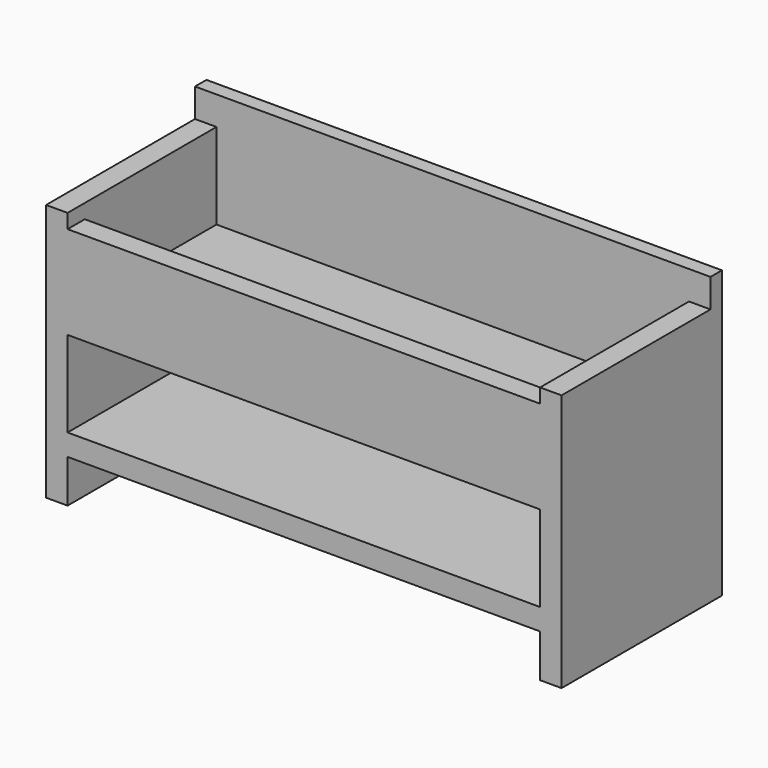
from build123d import *

# Parameters (mm, degrees)
F0_W     = 457.2
F0_H     = 254
F1_DEPTH = 12.7
F2_W     = 19.05
F2_H     = 228.6
F3_DEPTH = 165.1
F4_W     = 19.05
F4_H     = 63.5
F5_DEPTH = 419.1
F6_W     = 419.1
F6_H     = 19.05
F7_DEPTH = 165.1
F8_W     = 165.1
F8_H     = 19.05
F9_DEPTH = 419.1


with BuildPart() as f1:
    # F0 (on Front) → F1 (new body)
    with BuildSketch(Plane.XZ):
        Rectangle(F0_W, F0_H)
    extrude(amount=F1_DEPTH)

    # F2 (on face) → F3 (join)
    with BuildSketch(Plane.XZ.offset(12.7)):
        with Locations((-219.075, -12.7)):
            Rectangle(F2_W, F2_H)
        with Locations((219.075, -12.7)):
            Rectangle(F2_W, F2_H)
    extrude(amount=F3_DEPTH)

    # F4 (on face) → F5 (join, through all)
    with BuildSketch(Plane.YZ.offset(-209.55)):
        with Locations((-168.275, 57.15)):
            Rectangle(F4_W, F4_H)
    extrude(amount=F5_DEPTH)

    # F6 (on face) → F7 (join, through all)
    with BuildSketch(Plane.XZ.offset(12.7)):
        with Locations((0, 15.875)):
            Rectangle(F6_W, F6_H)
    extrude(amount=F7_DEPTH)

    # F8 (on face) → F9 (join, through all)
    with BuildSketch(Plane.YZ.offset(-209.55)):
        with Locations((-95.25, -79.375)):
            Rectangle(F8_W, F8_H)
    extrude(amount=F9_DEPTH)


solid = f1.part
